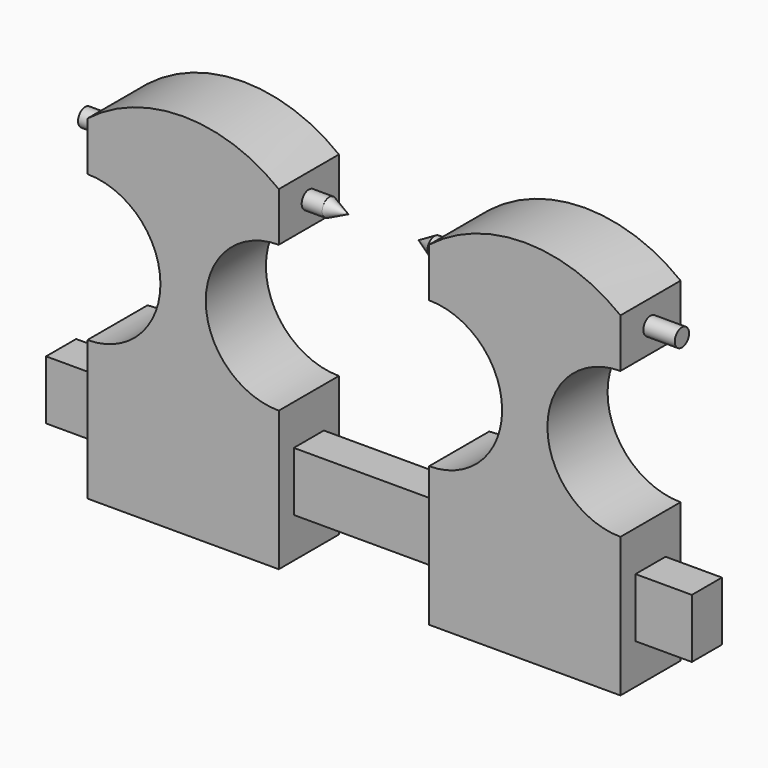
from build123d import *

# Parameters (mm, degrees)
F1_DEPTH = 4
F0_W     = 6
F0_H     = 6.286999
F0_W_2   = 16
F2_DEPTH = 2
F0_W_3   = 3.438169
F0_H_2   = 0.950144
F0_W_4   = 3.340321


with BuildPart() as f1:
    # F0 (on Front) → F1 (new body, symmetric)
    with BuildSketch(Plane.XZ):
        with BuildLine():
            Line((-28.36689, 7.353563), (-28.36689, 3.053606))
            Line((-28.36689, 3.053606), (-28.36689, -3.233393))
            Line((-28.36689, -3.233393), (-28.36689, -7.508554))
            Line((-28.36689, -7.508554), (-8, -7.508554))
            Line((-8, -7.508554), (-8, -3.233393))
            Line((-8, -3.233393), (-8, 3.053606))
            Line((-8, 3.053606), (-8, 7.353563))
            ThreePointArc((-8, 7.353563), (-15.771084, 15.124647), (-8, 22.89573))
            Line((-8, 22.89573), (-8, 24.438746))
            Line((-8, 24.438746), (-8, 25.501197))
            Line((-8, 25.501197), (-8, 26.451341))
            Line((-8, 26.451341), (-8, 28.106664))
            ThreePointArc((-8, 28.106664), (-18.183445, 31.624202), (-28.36689, 28.106664))
            Line((-28.36689, 28.106664), (-28.36689, 26.451341))
            Line((-28.36689, 26.451341), (-28.36689, 25.501197))
            Line((-28.36689, 25.501197), (-28.36689, 24.438746))
            Line((-28.36689, 24.438746), (-28.36689, 22.89573))
            ThreePointArc((-28.36689, 22.89573), (-20.595807, 15.124647), (-28.36689, 7.353563))
        make_face()
        with BuildLine():
            Line((8, 3.053606), (8, -3.233393))
            Line((8, -3.233393), (8, -7.508554))
            Line((8, -7.508554), (28.36689, -7.508554))
            Line((28.36689, -7.508554), (28.36689, -3.233393))
            Line((28.36689, -3.233393), (28.36689, 3.053606))
            Line((28.36689, 3.053606), (28.36689, 7.353563))
            ThreePointArc((28.36689, 7.353563), (20.595807, 15.124647), (28.36689, 22.89573))
            Line((28.36689, 22.89573), (28.36689, 24.438746))
            Line((28.36689, 24.438746), (28.36689, 25.501197))
            Line((28.36689, 25.501197), (28.36689, 26.451341))
            Line((28.36689, 26.451341), (28.36689, 28.106664))
            ThreePointArc((28.36689, 28.106664), (18.183445, 31.624202), (8, 28.106664))
            Line((8, 28.106664), (8, 22.89573))
            ThreePointArc((8, 22.89573), (15.771084, 15.124647), (8, 7.353563))
            Line((8, 7.353563), (8, 3.053606))
        make_face()
    extrude(amount=F1_DEPTH, both=True)


with BuildPart() as f2:
    # F0 (on Front) → F2 (new body, symmetric)
    with BuildSketch(Plane.XZ):
        with Locations((31.36689, -0.089894)):
            Rectangle(F0_W, F0_H)
        with Locations((0, -0.089894)):
            Rectangle(F0_W_2, F0_H)
        with Locations((-31.36689, -0.089894)):
            Rectangle(F0_W, F0_H)
    extrude(amount=F2_DEPTH, both=True)


with BuildPart() as f3:
    # F0 (on Front) → F3 (revolve)
    with BuildSketch(Plane.XZ):
        Polygon((-5.821326, 26.451341), (-8, 26.451341), (-8, 25.501197), (-3.789089, 25.501197), align=None)
        with Locations((-30.085974, 25.976269)):
            Rectangle(F0_W_3, F0_H_2)
        Polygon((5.384906, 26.451341), (3.691245, 25.501197), (7.995964, 25.501197), (7.995964, 26.451341), align=None)
        with Locations((30.03705, 25.976269)):
            Rectangle(F0_W_4, F0_H_2)
    revolve(axis=Axis((-5.894544, 0, 25.501197), (-1, 0, 0)))


solid = Compound([f1.part, f2.part, f3.part])
